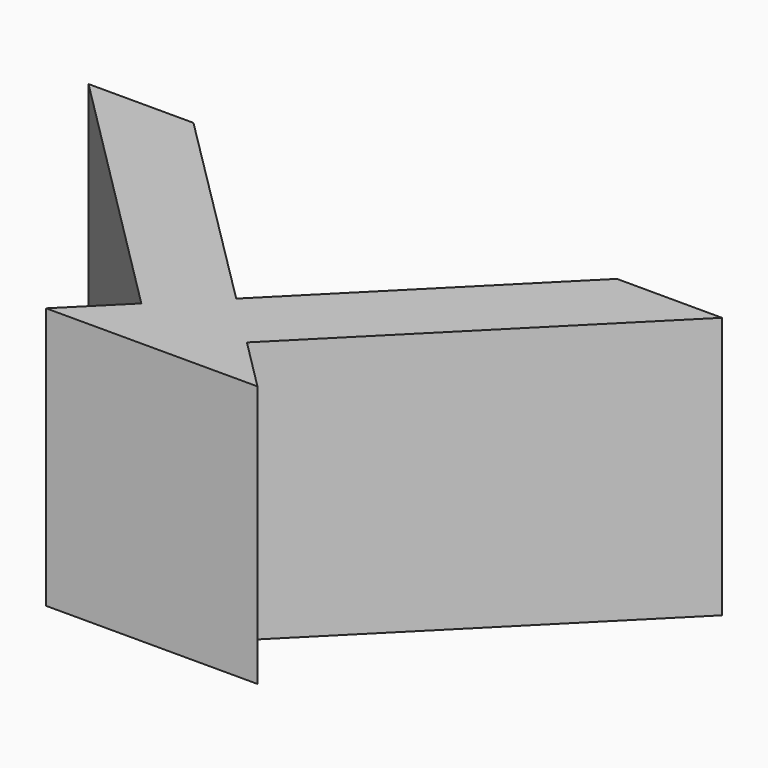
from build123d import *

# Parameters (mm, degrees)
F0_W     = 5.1181
F0_H     = 5.1308
F1_DEPTH = 25.4


with BuildPart() as f1:
    # F0 (on Top) → F1 (new body)
    with BuildSketch(Plane.XY):
        Polygon((-18.632969, 30.72453), (6.960761, 5.1308), (12.078861, 10.2362), (-8.457507, 30.72161), align=None)
        Polygon((32.564271, 30.772569), (12.078861, 10.2362), (17.196961, 5.1308), (42.758878, 30.756304), align=None)
        Polygon((12.078861, 10.2362), (12.078861, 5.1308), (17.196961, 5.1308), align=None)
        Polygon((12.078861, 10.2362), (6.960761, 5.1308), (12.078861, 5.1308), align=None)
        Polygon((6.960761, 5.1308), (1.829961, 0), (6.960761, 0), align=None)
        with Locations((9.519811, 2.5654)):
            Rectangle(F0_W, F0_H)
        with Locations((14.637911, 2.5654)):
            Rectangle(F0_W, F0_H)
        Polygon((17.196961, 5.1308), (17.196961, 0), (22.327761, 0), align=None)
    extrude(amount=F1_DEPTH)


solid = f1.part
